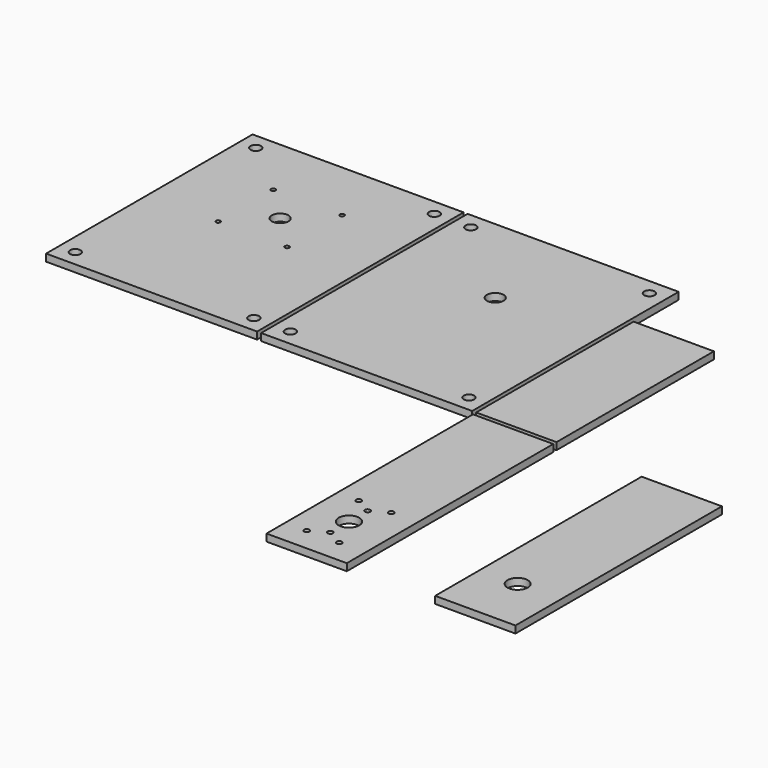
from build123d import *

# Parameters (mm, degrees)
F0_W     = 165.1
F0_H     = 201.93
F0_R     = 4.09575
F0_R_2   = 1.7272
F0_R_3   = 6.477
F1_DEPTH = 5.588
F0_W_2   = 62.80912
F0_R_4   = 2.0828
F0_R_5   = 8.0645
F2_DEPTH = 5.588
F0_H_2   = 153.924
F3_DEPTH = 5.588
F0_R_6   = 7.9375
F4_DEPTH = 5.588
F5_DEPTH = 5.588


with BuildPart() as f1:
    # F0 (on Top) → F1 (new body)
    with BuildSketch(Plane.XY):
        with Locations((82.55, 306.07)):
            Rectangle(F0_W, F0_H)
        with Locations((12.7, 217.805)):
            Circle(F0_R, mode=Mode.SUBTRACT)
        with Locations((55.609232, 303.894232)):
            Circle(F0_R_2, mode=Mode.SUBTRACT)
        with Locations((109.490768, 303.894232)):
            Circle(F0_R_2, mode=Mode.SUBTRACT)
        with Locations((152.4, 217.805)):
            Circle(F0_R, mode=Mode.SUBTRACT)
        with Locations((82.55, 330.835)):
            Circle(F0_R_3, mode=Mode.SUBTRACT)
        with Locations((55.609232, 357.775768)):
            Circle(F0_R_2, mode=Mode.SUBTRACT)
        with Locations((12.7, 394.335)):
            Circle(F0_R, mode=Mode.SUBTRACT)
        with Locations((109.490768, 357.775768)):
            Circle(F0_R_2, mode=Mode.SUBTRACT)
        with Locations((152.4, 394.335)):
            Circle(F0_R, mode=Mode.SUBTRACT)
    extrude(amount=F1_DEPTH)


with BuildPart() as f2:
    # F0 (on Top) → F2 (new body)
    with BuildSketch(Plane.XY):
        with Locations((367.95456, 100.965)):
            Rectangle(F0_W_2, F0_H)
        with Locations((353.314, 18.415)):
            Circle(F0_R_4, mode=Mode.SUBTRACT)
        with Locations((366.014, 25.55875)):
            Circle(F0_R_4, mode=Mode.SUBTRACT)
        with Locations((366.014, 43.815)):
            Circle(F0_R_5, mode=Mode.SUBTRACT)
        with Locations((378.714, 18.415)):
            Circle(F0_R_4, mode=Mode.SUBTRACT)
        with Locations((366.014, 62.07125)):
            Circle(F0_R_4, mode=Mode.SUBTRACT)
        with Locations((353.314, 69.215)):
            Circle(F0_R_4, mode=Mode.SUBTRACT)
        with Locations((378.714, 69.215)):
            Circle(F0_R_4, mode=Mode.SUBTRACT)
    extrude(amount=F2_DEPTH)


with BuildPart() as f3:
    # F0 (on Top) → F3 (new body)
    with BuildSketch(Plane.XY):
        with Locations((367.95456, 282.067)):
            Rectangle(F0_W_2, F0_H_2)
    extrude(amount=F3_DEPTH)


with BuildPart() as f4:
    # F0 (on Top) → F4 (new body)
    with BuildSketch(Plane.XY):
        with Locations((499.9228, 100.965)):
            Rectangle(F0_W_2, F0_H)
        with Locations((497.97716, 43.815)):
            Circle(F0_R_6, mode=Mode.SUBTRACT)
    extrude(amount=F4_DEPTH)


with BuildPart() as f5:
    # F0 (on Top) → F5 (new body)
    with BuildSketch(Plane.XY):
        with Locations((250.825, 306.07)):
            Rectangle(F0_W, F0_H)
        with Locations((180.975, 217.805)):
            Circle(F0_R, mode=Mode.SUBTRACT)
        with Locations((250.825, 330.835)):
            Circle(F0_R_3, mode=Mode.SUBTRACT)
        with Locations((180.975, 394.335)):
            Circle(F0_R, mode=Mode.SUBTRACT)
        with Locations((320.675, 217.805)):
            Circle(F0_R, mode=Mode.SUBTRACT)
        with BuildLine():
            ThreePointArc((316.57925, 394.335), (320.675, 398.43075), (324.77075, 394.335))
            ThreePointArc((324.77075, 394.335), (320.675, 390.23925), (316.57925, 394.335))
        make_face(mode=Mode.SUBTRACT)
    extrude(amount=F5_DEPTH)


solid = Compound([f1.part, f2.part, f3.part, f4.part, f5.part])
